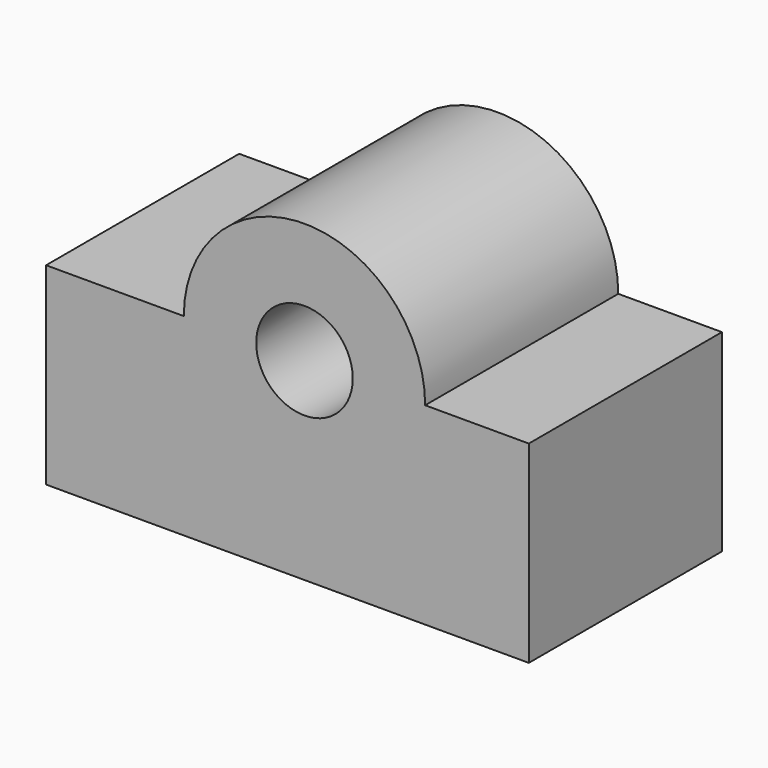
from build123d import *

# Parameters (mm, degrees)
F0_R          = 10
F1_DEPTH      = 25
F2_DEPTH      = 25
F2_DEPTH_BACK = 25


with BuildPart() as f1:
    # F0 (on Front) → F1 (new body)
    with BuildSketch(Plane.XZ):
        with BuildLine():
            Line((-53.527393, 20), (-53.527393, -20))
            Line((-53.527393, -20), (46.472607, -20))
            Line((46.472607, -20), (46.472607, 20))
            Line((46.472607, 20), (25, 20))
            ThreePointArc((25, 20), (0, 45), (-25, 20))
            Line((-25, 20), (-53.527393, 20))
        make_face()
        with Locations((0, 20)):
            Circle(F0_R, mode=Mode.SUBTRACT)
    extrude(amount=F1_DEPTH)

    # F0 (on Front) → F2 (join, two sides)
    with BuildSketch(Plane.XZ) as f2_sk:
        with BuildLine():
            Line((-53.527393, 20), (-53.527393, -20))
            Line((-53.527393, -20), (46.472607, -20))
            Line((46.472607, -20), (46.472607, 20))
            Line((46.472607, 20), (25, 20))
            ThreePointArc((25, 20), (0, 45), (-25, 20))
            Line((-25, 20), (-53.527393, 20))
        make_face()
        with Locations((0, 20)):
            Circle(F0_R, mode=Mode.SUBTRACT)
    extrude(amount=F2_DEPTH)
    extrude(f2_sk.sketch, amount=-F2_DEPTH_BACK)


solid = f1.part
